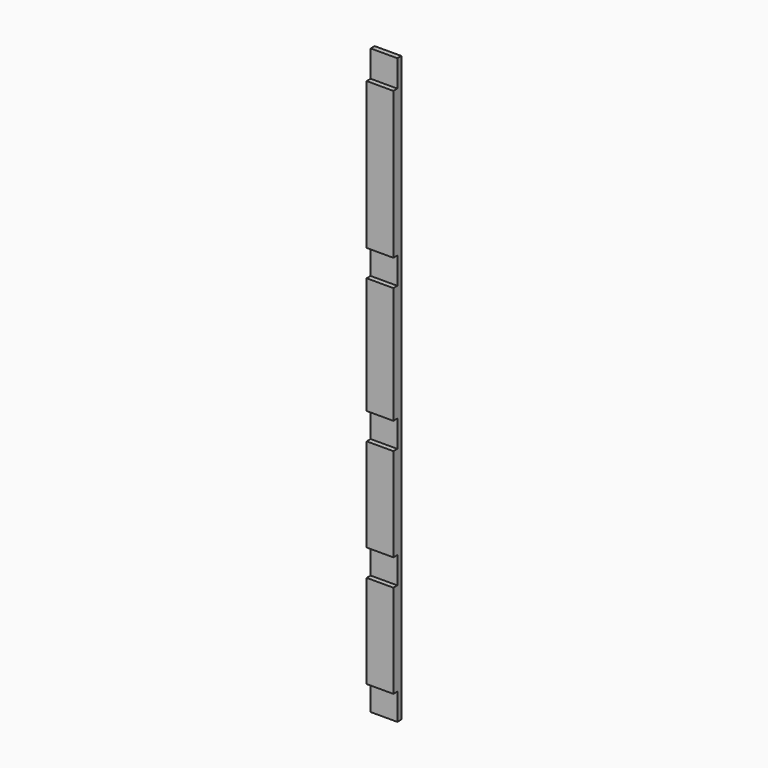
from build123d import *

# Parameters (mm, degrees)
F0_W     = 50.8
F0_H     = 19.05
F1_DEPTH = 1111.25
F2_W     = 122.435573
F2_H     = 50.8
F2_W_2   = 93.867282
F2_W_3   = 343.160421
F2_W_4   = 175.76392
F2_W_5   = 161.28926
F3_DEPTH = 25.4
F4_R     = 4.7625
F5_DEPTH = 25.4


with BuildPart() as f1:
    # F0 (on Top) → F1 (new body)
    with BuildSketch(Plane.XY):
        Rectangle(F0_W, F0_H)
    extrude(amount=F1_DEPTH)

    # F2 (on Front) → F3 (cut)
    with BuildSketch(Plane.XZ):
        with Locations((22.446524, 25.4)):
            Rectangle(F2_W, F2_H)
        with Locations((2.720783, 755.65)):
            Rectangle(F2_W_2, F2_H)
        with Locations((-38.781822, 1085.85)):
            Rectangle(F2_W_3, F2_H)
        with Locations((-28.949343, 254)):
            Rectangle(F2_W_4, F2_H)
        with Locations((-29.98326, 482.6)):
            Rectangle(F2_W_5, F2_H)
    extrude(amount=F3_DEPTH, mode=Mode.SUBTRACT)

    # F4 (on Front) → F5 (cut)
    with BuildSketch(Plane.XZ):
        with Locations((15.875, 254)):
            Circle(F4_R)
        with Locations((15.875, 482.6)):
            Circle(F4_R)
    extrude(amount=F5_DEPTH, mode=Mode.SUBTRACT)


solid = f1.part
